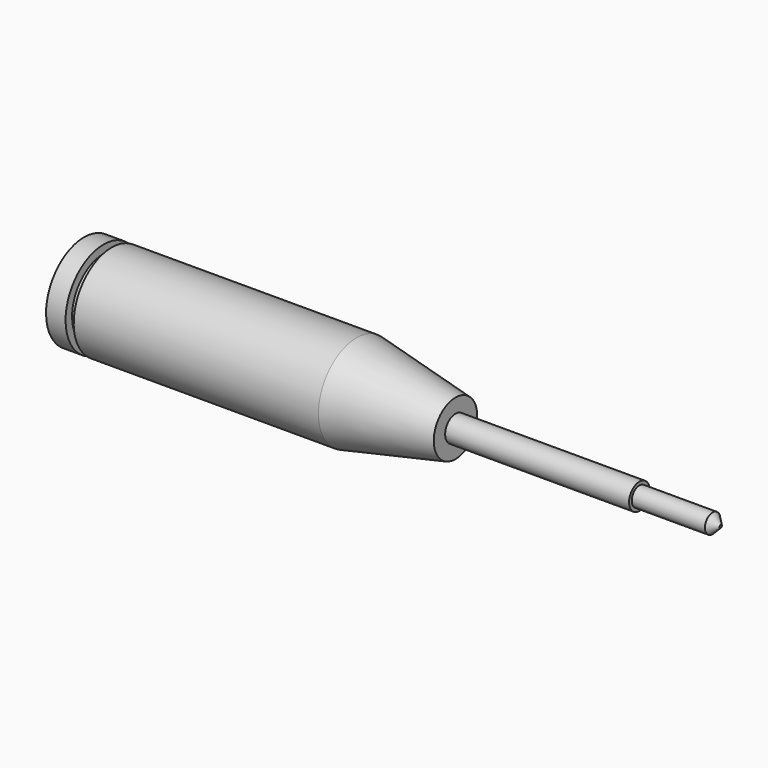
from build123d import *

# Parameters (mm, degrees)
F2_R     = 1.5
F3_DEPTH = 12.7
F4_SIZE  = 1.27


with BuildPart() as f1:
    # F0 (on Front) → F1 (revolve)
    with BuildSketch(Plane.XZ):
        Polygon((0, 7.4168), (0, 0), (86.741, 0), (86.741, 2.0193), (58.0136, 2.0193), (58.0136, 4.2418), (42.545, 7.4168), (4.318, 7.4168), (4.318, 6.1468), (3.048, 6.1468), (3.048, 7.4168), align=None)
    revolve(axis=Axis((43.3705, 0, 0), (-1, 0, 0)))


with BuildPart() as f3:
    # F2 (on face) → F3 (new body)
    with BuildSketch(Plane.YZ.offset(86.741)):
        Circle(F2_R)
    extrude(amount=F3_DEPTH)

    # F4
    f4_edges = [f3.edges().sort_by_distance(p)[0] for p in [
        (99.441, -1.5, 0),
    ]]
    chamfer(f4_edges, length=F4_SIZE)


solid = Compound([f1.part, f3.part])
